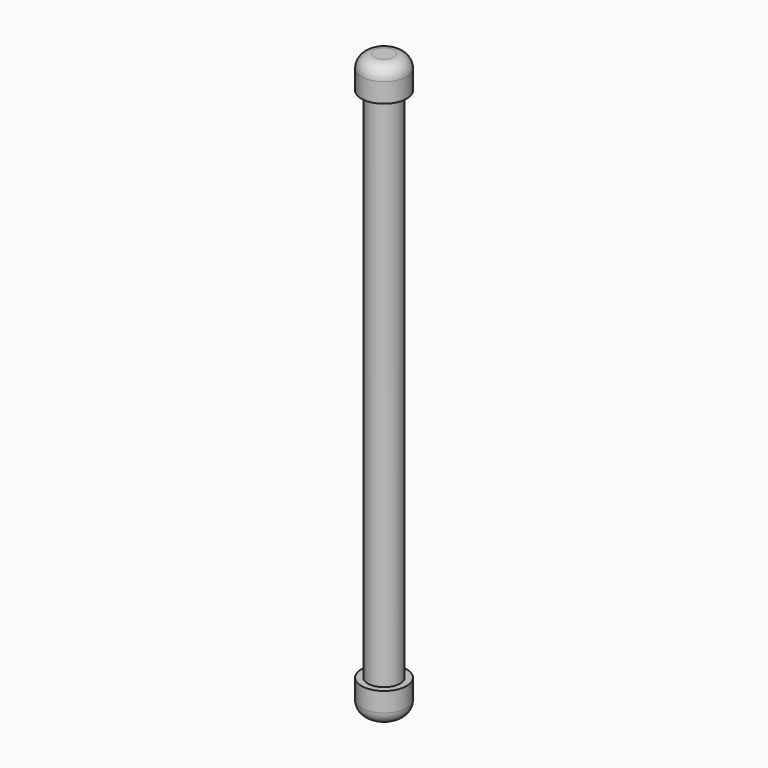
from build123d import *

# Parameters (mm, degrees)
F0_R     = 3.33375
F1_DEPTH = 4.7625
F2_R     = 2.38125
F3_DEPTH = 76.2
F4_R     = 3.33375
F5_DEPTH = 4.7625
F6_R     = 1.905


with BuildPart() as f1:
    # F0 (on Top) → F1 (new body)
    with BuildSketch(Plane.XY):
        Circle(F0_R)
    extrude(amount=F1_DEPTH)

    # F2 (on face) → F3 (join)
    with BuildSketch(Plane(origin=(0, 0, 0), x_dir=(1, 0, 0), z_dir=(0, 0, -1))):
        Circle(F2_R)
    extrude(amount=F3_DEPTH)

    # F4 (on face) → F5 (join)
    with BuildSketch(Plane(origin=(0, 0, -76.2), x_dir=(1, 0, 0), z_dir=(0, 0, -1))):
        Circle(F4_R)
    extrude(amount=F5_DEPTH)

    # F6
    f6_edges = [f1.edges().sort_by_distance(p)[0] for p in [
        (-3.33375, 0, 4.7625),
        (-3.33375, 0, -80.9625),
    ]]
    fillet(f6_edges, radius=F6_R)


solid = f1.part
